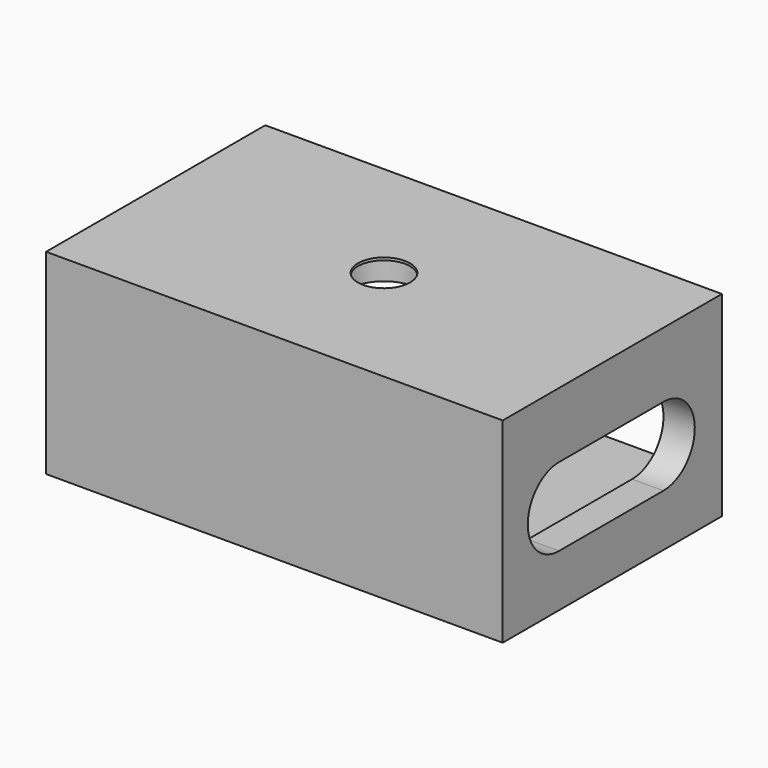
from build123d import *

# Parameters (mm, degrees)
F1_DEPTH  = 2.5
F3_DEPTH  = 10.5
F4_W      = 35
F4_H      = 21
F5_DEPTH  = 2
F7_DEPTH  = 2.4
F8_R      = 2
F9_DEPTH  = 25
F10_R     = 2.75
F11_DEPTH = 1.8


with BuildPart() as f1:
    # F0 (on Top) → F1 (new body)
    with BuildSketch(Plane.XY):
        with BuildLine():
            Line((0.864788, 5.76975), (-12.385212, 5.76975))
            Line((-12.385212, 5.76975), (-12.385212, -15.23025))
            Line((-12.385212, -15.23025), (22.614788, -15.23025))
            Line((22.614788, -15.23025), (22.614788, 5.76975))
            Line((22.614788, 5.76975), (9.364788, 5.76975))
            Line((9.364788, 5.76975), (9.364788, -1.989312))
            ThreePointArc((9.364788, -1.989312), (5.114788, -6.239312), (0.864788, -1.989312))
            Line((0.864788, -1.989312), (0.864788, 5.76975))
        make_face()
    extrude(amount=F1_DEPTH)

    # F2 (on face) → F3 (join)
    with BuildSketch(Plane.XY.offset(2.5)):
        Polygon((-9.985212, 5.76975), (-12.385212, 5.76975), (-12.385212, -15.23025), (22.614788, -15.23025), (22.614788, 5.76975), (20.214788, 5.76975), (20.214788, -12.83025), (-9.985212, -12.83025), align=None)
    extrude(amount=F3_DEPTH)

    # F4 (on face) → F5 (join)
    with BuildSketch(Plane.XY.offset(13)):
        with Locations((5.114788, -4.73025)):
            Rectangle(F4_W, F4_H)
    extrude(amount=F5_DEPTH)

    # F6 (on face) → F7 (cut)
    with BuildSketch(Plane.YZ.offset(22.614788)):
        with BuildLine():
            Line((-9.83025, 4), (0.16975, 4))
            ThreePointArc((0.16975, 4), (3.168548, 7.084909), (0, 9.995194))
            Line((0, 9.995194), (-9.660501, 9.995194))
            ThreePointArc((-9.660501, 9.995194), (-12.829049, 7.084909), (-9.83025, 4))
        make_face()
    extrude(amount=-F7_DEPTH, mode=Mode.SUBTRACT)

    # F8 (on face) → F9 (cut)
    with BuildSketch(Plane.XY.offset(15)):
        with Locations((5.114788, -4.73025)):
            Circle(F8_R)
    extrude(amount=-F9_DEPTH, mode=Mode.SUBTRACT)

    # F10 (on face) → F11 (cut)
    with BuildSketch(Plane(origin=(0, 0, 13), x_dir=(1, 0, 0), z_dir=(0, 0, -1))):
        with Locations((5.114788, 4.73025)):
            Circle(F10_R)
    extrude(amount=-F11_DEPTH, mode=Mode.SUBTRACT)


solid = f1.part
